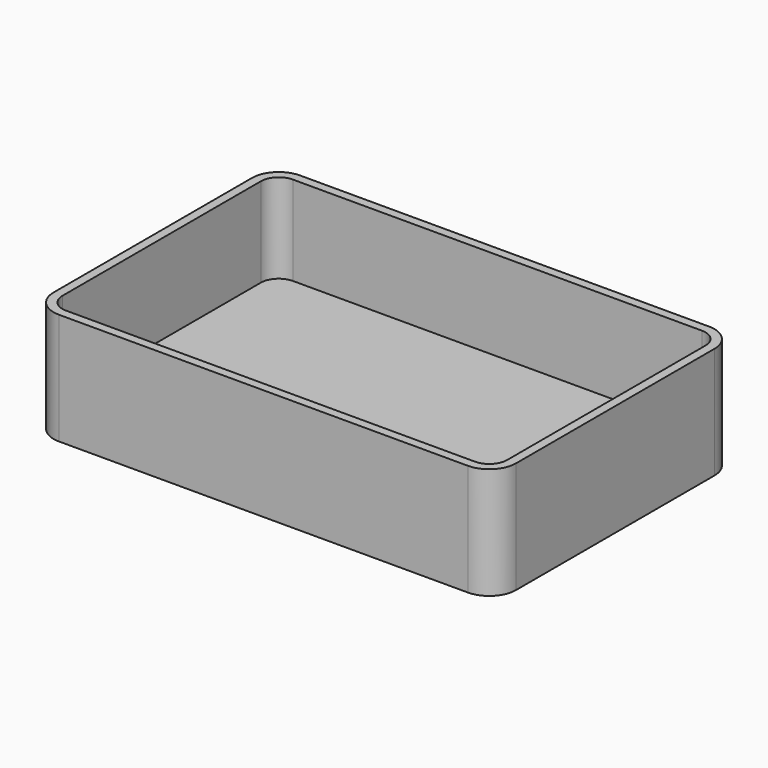
from build123d import *

# Parameters (mm, degrees)
F1_DEPTH = 25
F3_DEPTH = 20


with BuildPart() as f1:
    # F0 (on Top) → F1 (new body)
    with BuildSketch(Plane.XY):
        with BuildLine():
            Line((-45.816002, -33.782002), (45.816002, -33.782002))
            ThreePointArc((45.816002, -33.782002), (50.058642, -32.024642), (51.816002, -27.782002))
            Line((51.816002, -27.782002), (51.816002, 27.782002))
            ThreePointArc((51.816002, 27.782002), (50.058642, 32.024642), (45.816002, 33.782002))
            Line((45.816002, 33.782002), (-45.816002, 33.782002))
            ThreePointArc((-45.816002, 33.782002), (-50.058642, 32.024642), (-51.816002, 27.782002))
            Line((-51.816002, 27.782002), (-51.816002, -27.782002))
            ThreePointArc((-51.816002, -27.782002), (-50.058642, -32.024642), (-45.816002, -33.782002))
        make_face()
    extrude(amount=F1_DEPTH)

    # F2 (on face) → F3 (cut)
    with BuildSketch(Plane.XY.offset(25)):
        with BuildLine():
            ThreePointArc((45.816002, -31.782002), (48.644429, -30.610429), (49.816002, -27.782002))
            Line((49.816002, -27.782002), (49.816002, 27.782002))
            ThreePointArc((49.816002, 27.782002), (48.644429, 30.610429), (45.816002, 31.782002))
            Line((45.816002, 31.782002), (-45.816002, 31.782002))
            ThreePointArc((-45.816002, 31.782002), (-48.644429, 30.610429), (-49.816002, 27.782002))
            Line((-49.816002, 27.782002), (-49.816002, -27.782002))
            ThreePointArc((-49.816002, -27.782002), (-48.644429, -30.610429), (-45.816002, -31.782002))
            Line((-45.816002, -31.782002), (45.816002, -31.782002))
        make_face()
    extrude(amount=-F3_DEPTH, mode=Mode.SUBTRACT)


solid = f1.part
